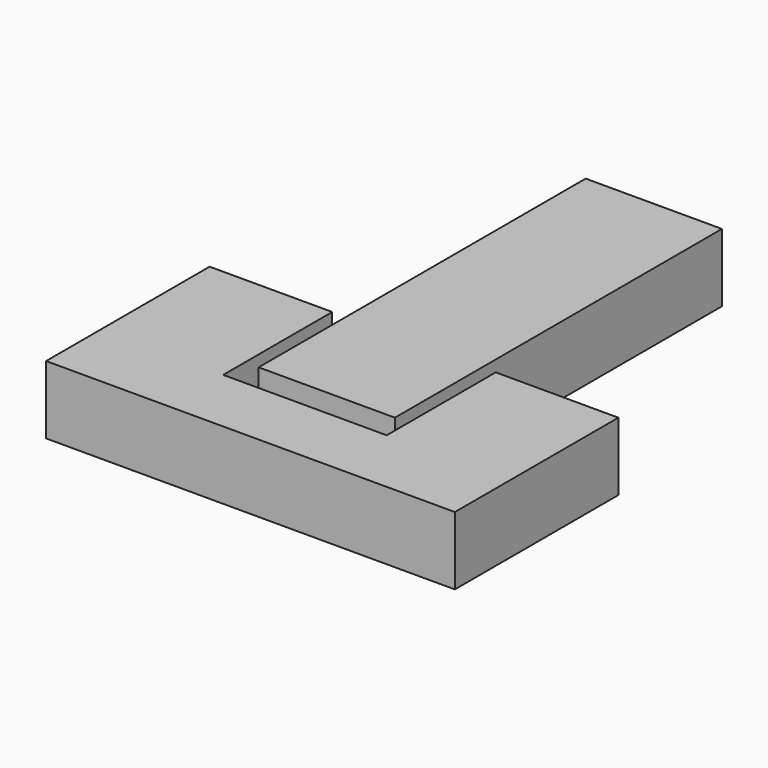
from build123d import *

# Parameters (mm, degrees)
BOX004_W          = 9
BOX004_H          = 2.6
BOX004_DEPTH      = 1.3
CYLINDER002_R     = 1.3
CYLINDER002_DEPTH = 9
BOX002_W          = 9
BOX002_H          = 2.6
BOX002_DEPTH      = 1.3
CYLINDER001_R     = 1.3
CYLINDER001_DEPTH = 9
BOX001_W          = 10
BOX001_H          = 30
BOX001_DEPTH      = 5
BOX003_W          = 12
BOX003_H          = 30
BOX003_DEPTH      = 5
BOX_W             = 30
BOX_H             = 15
BOX_DEPTH         = 5


with BuildPart() as cube004:
    # Box004 → Box004 (new body)
    with BuildSketch(Plane(origin=(5, -1.3, 0), x_dir=(1, 0, 0), z_dir=(0, 0, 1))):
        with Locations((4.5, 1.3)):
            Rectangle(BOX004_W, BOX004_H)
    extrude(amount=BOX004_DEPTH)


with BuildPart() as fusion001:
    # Cylinder002 → Cylinder002 (new body)
    with BuildSketch(Plane(origin=(5, 0, 0), x_dir=(0, 0, -1), z_dir=(1, 0, 0))):
        Circle(CYLINDER002_R)
    extrude(amount=CYLINDER002_DEPTH)

    # Fusion001: union Cube004
    add(cube004.part)


with BuildPart() as fusion001_1:
    # Fusion001 placement: moved
    add(fusion001.part.moved(Location((11, 0, 0))))


with BuildPart() as cube002:
    # Box002 → Box002 (new body)
    with BuildSketch(Plane(origin=(5, -1.3, 0), x_dir=(1, 0, 0), z_dir=(0, 0, 1))):
        with Locations((4.5, 1.3)):
            Rectangle(BOX002_W, BOX002_H)
    extrude(amount=BOX002_DEPTH)


with BuildPart() as fusion002:
    # Cylinder001 → Cylinder001 (new body)
    with BuildSketch(Plane(origin=(5, 0, 0), x_dir=(0, 0, -1), z_dir=(1, 0, 0))):
        Circle(CYLINDER001_R)
    extrude(amount=CYLINDER001_DEPTH)

    # Fusion: union Cube002
    add(cube002.part)

    # Fusion002: union Fusion001
    add(fusion001_1.part)


with BuildPart() as cube001:
    # Box001 → Box001 (new body)
    with BuildSketch(Plane(origin=(10, -3, -2.5), x_dir=(1, 0, 0), z_dir=(0, 0, 1))):
        with Locations((5, 15)):
            Rectangle(BOX001_W, BOX001_H)
    extrude(amount=BOX001_DEPTH)


with BuildPart() as cube003:
    # Box003 → Box003 (new body)
    with BuildSketch(Plane(origin=(9, -5, -2.5), x_dir=(1, 0, 0), z_dir=(0, 0, 1))):
        with Locations((6, 15)):
            Rectangle(BOX003_W, BOX003_H)
    extrude(amount=BOX003_DEPTH)


with BuildPart() as cut001:
    # Box → Box (new body)
    with BuildSketch(Plane(origin=(0, -10, -2.5), x_dir=(1, 0, 0), z_dir=(0, 0, 1))):
        with Locations((15, 7.5)):
            Rectangle(BOX_W, BOX_H)
    extrude(amount=BOX_DEPTH)

    # Cut: cut Cube003
    add(cube003.part, mode=Mode.SUBTRACT)

    # Fusion003: union Cube001
    add(cube001.part)

    # Cut001: cut Fusion002
    add(fusion002.part, mode=Mode.SUBTRACT)


solid = cut001.part
